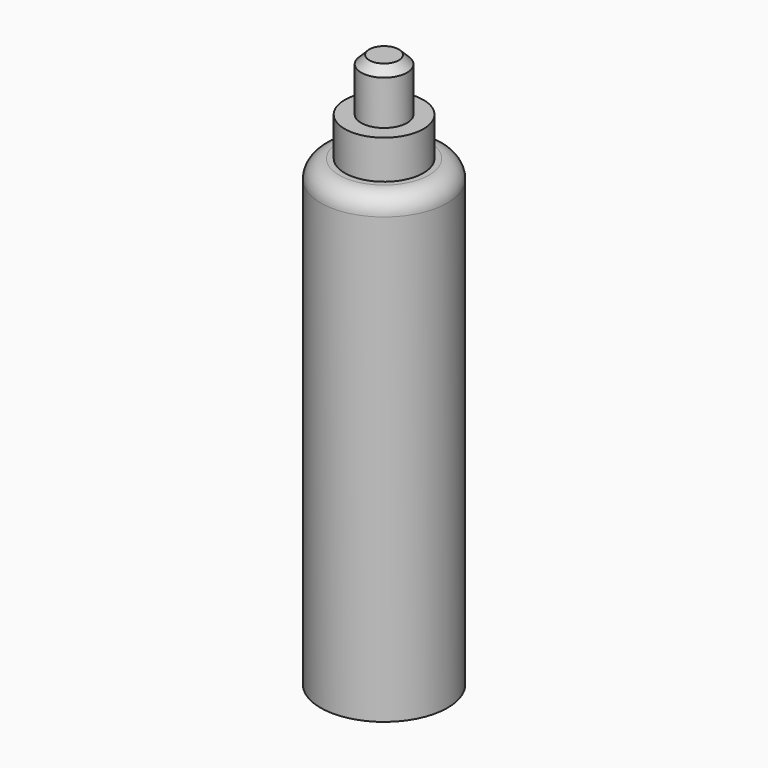
from build123d import *

# Parameters (mm, degrees)
F0_R     = 11.615552
F1_DEPTH = 84.7
F2_R     = 7.202174
F3_DEPTH = 7.1
F4_R     = 4.202422
F5_DEPTH = 9.6
F6_R     = 3.379899
F7_SIZE  = 1.5


with BuildPart() as f1:
    # F0 (on Top) → F1 (new body)
    with BuildSketch(Plane.XY):
        Circle(F0_R)
    extrude(amount=F1_DEPTH)

    # F2 (on face) → F3 (join)
    with BuildSketch(Plane.XY.offset(84.7)):
        Circle(F2_R)
    extrude(amount=F3_DEPTH)

    # F4 (on face) → F5 (join)
    with BuildSketch(Plane.XY.offset(91.8)):
        Circle(F4_R)
    extrude(amount=F5_DEPTH)

    # F6
    f6_edges = [f1.edges().sort_by_distance(p)[0] for p in [
        (-11.615552, 0, 84.7),
    ]]
    fillet(f6_edges, radius=F6_R)

    # F7
    f7_edges = [f1.edges().sort_by_distance(p)[0] for p in [
        (-4.202422, 0, 101.4),
    ]]
    chamfer(f7_edges, length=F7_SIZE)


solid = f1.part
